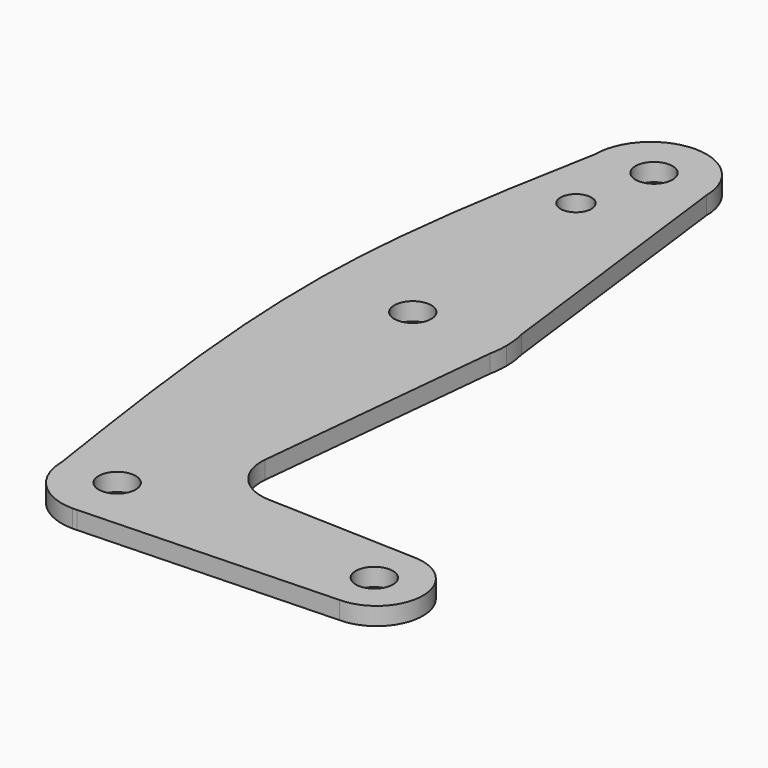
from build123d import *

# Parameters (mm, degrees)
F1_DEPTH = 3.048
F2_R     = 3.175
F2_R_2   = 2.6475985541
F3_DEPTH = 25.4


with BuildPart() as f1:
    # F0 (on Top) → F1 (new body)
    with BuildSketch(Plane.XY):
        with BuildLine():
            Line((36.5125, 0), (9.525, 0))
            ThreePointArc((9.525, 0), (6.9712901065, -6.4905114784), (0.6794904459, -9.5007324841))
            add(Edge.make_bspline(
                [(0.6794904459, -9.5007324841), (15.2696602972, -8.9796549894), (29.8598301486, -8.4585774947), (44.45, -7.9375)],
                knots=[0.6799236563, 0.6799236563, 0.6799236563, 0.6799236563, 44.4783391804, 44.4783391804, 44.4783391804, 44.4783391804], degree=3))
            ThreePointArc((44.45, -7.9375), (38.8373399243, -5.6126600757), (36.5125, 0))
        make_face()
        with BuildLine():
            ThreePointArc((0.6794904459, -9.5007324841), (6.9712901065, -6.4905114784), (9.525, 0))
            Line((9.525, 0), (7.9502, 0))
            Line((7.9502, 0), (0, 0))
            Line((0, 0), (0, 7.9502))
            Line((0, 7.9502), (0, 9.525))
            ThreePointArc((0, 9.525), (-6.7351920908, 6.7351920908), (-9.525, 0))
            ThreePointArc((-9.525, 0), (-6.7351920908, -6.7351920908), (0, -9.525))
            add(Edge.make_bspline(
                [(0, -9.525), (0.2264968153, -9.516910828), (0.4529936306, -9.5088216561), (0.6794904459, -9.5007324841)],
                knots=[0, 0, 0, 0, 0.6799236563, 0.6799236563, 0.6799236563, 0.6799236563], degree=3))
        make_face()
        with BuildLine():
            ThreePointArc((0, 9.525), (6.7351920908, 6.7351920908), (9.525, 0))
            Line((9.525, 0), (36.5125, 0))
            ThreePointArc((36.5125, 0), (38.9380895153, 5.7116327839), (44.7324052746, 7.9324746146))
            Line((44.7324052746, 7.9324746146), (18.911683868, 8.8517221725))
            ThreePointArc((18.911683868, 8.8517221725), (13.2058638027, 11.5679858429), (11.2837963213, 17.5879632134))
            Line((11.2837963213, 17.5879632134), (15.5606435644, 60.3564356436))
            ThreePointArc((15.5606435644, 60.3564356436), (10.0526499203, 51.2134278751), (0, 47.625))
            Line((0, 47.625), (0, 9.525))
        make_face()
        with BuildLine():
            ThreePointArc((-9.525, 0), (-6.7351920908, 6.7351920908), (0, 9.525))
            Line((0, 9.525), (0, 47.625))
            ThreePointArc((0, 47.625), (-11.2253201513, 52.2746798487), (-15.875, 63.5))
            add(Edge.make_bspline(
                [(-15.875, 63.5), (-16.1215550824, 43.5259949008), (-12.8232775412, 21.7629974504), (-9.525, 0)],
                knots=[0.4724820063, 0.4724820063, 0.4724820063, 0.4724820063, 1, 1, 1, 1], degree=3))
        make_face()
        with BuildLine():
            ThreePointArc((0, -9.525), (0.3399618281, -9.5189311877), (0.6794904459, -9.5007324841))
            add(Edge.make_bspline(
                [(0, -9.525), (0.2264968153, -9.516910828), (0.4529936306, -9.5088216561), (0.6794904459, -9.5007324841)],
                knots=[0, 0, 0, 0, 0.6799236563, 0.6799236563, 0.6799236563, 0.6799236563], degree=3))
        make_face()
        with BuildLine():
            ThreePointArc((44.7324052746, 7.9324746146), (38.9380895153, 5.7116327839), (36.5125, 0))
            ThreePointArc((36.5125, 0), (38.8373399243, -5.6126600757), (44.45, -7.9375))
            ThreePointArc((44.45, -7.9375), (50.0626600757, -5.6126600757), (52.3875, 0))
            ThreePointArc((52.3875, 0), (50.1616327839, 5.5119104847), (44.7324052746, 7.9324746146))
        make_face()
        with BuildLine():
            ThreePointArc((-15.875, 63.5), (-11.2253201513, 52.2746798487), (0, 47.625))
            Line((0, 47.625), (0, 63.5))
            Line((0, 63.5), (0, 79.375))
            ThreePointArc((0, 79.375), (-11.0712727385, 74.8772819667), (-15.8691013135, 63.9327221983))
            add(Edge.make_bspline(
                [(-15.8691013135, 63.9327221983), (-15.871251645, 63.7885743777), (-15.8732183716, 63.6443338962), (-15.875, 63.5)],
                knots=[0.4686701154, 0.4686701154, 0.4686701154, 0.4686701154, 0.4724820063, 0.4724820063, 0.4724820063, 0.4724820063], degree=3))
        make_face()
        with BuildLine():
            Line((0, 63.5), (0, 47.625))
            ThreePointArc((0, 47.625), (10.0526499203, 51.2134278751), (15.5606435644, 60.3564356436))
            Line((15.5606435644, 60.3564356436), (15.875, 63.5))
            Line((15.875, 63.5), (15.3865384615, 67.4076923077))
            ThreePointArc((15.3865384615, 67.4076923077), (9.7463072395, 76.0309664508), (0, 79.375))
            Line((0, 79.375), (0, 63.5))
        make_face()
        with BuildLine():
            ThreePointArc((-15.8691013135, 63.9327221983), (-15.8735252599, 63.7163812003), (-15.875, 63.5))
            add(Edge.make_bspline(
                [(-15.8691013135, 63.9327221983), (-15.871251645, 63.7885743777), (-15.8732183716, 63.6443338962), (-15.875, 63.5)],
                knots=[0.4686701154, 0.4686701154, 0.4686701154, 0.4686701154, 0.4724820063, 0.4724820063, 0.4724820063, 0.4724820063], degree=3))
        make_face()
        with BuildLine():
            Line((15.875, 63.5), (15.5606435644, 60.3564356436))
            ThreePointArc((15.5606435644, 60.3564356436), (15.7962153946, 61.9203784605), (15.875, 63.5))
        make_face()
        with BuildLine():
            add(Edge.make_bspline(
                [(-9.525, 114.3), (-12.5648595586, 97.9778131088), (-15.6047191172, 81.6556262176), (-15.8691013135, 63.9327221983)],
                knots=[0, 0, 0, 0, 0.4686701154, 0.4686701154, 0.4686701154, 0.4686701154], degree=3))
            ThreePointArc((-15.8691013135, 63.9327221983), (-11.0712727385, 74.8772819667), (0, 79.375))
            Line((0, 79.375), (0, 104.775))
            ThreePointArc((0, 104.775), (-6.7351920908, 107.5648079092), (-9.525, 114.3))
        make_face()
        with BuildLine():
            Line((0, 104.775), (0, 79.375))
            ThreePointArc((0, 79.375), (9.7463072395, 76.0309664508), (15.3865384615, 67.4076923077))
            Line((15.3865384615, 67.4076923077), (9.525, 114.3))
            ThreePointArc((9.525, 114.3), (6.7351920908, 107.5648079092), (0, 104.775))
        make_face()
        with BuildLine():
            Line((15.3865384615, 67.4076923077), (15.875, 63.5))
            ThreePointArc((15.875, 63.5), (15.7524112928, 65.4690514116), (15.3865384615, 67.4076923077))
        make_face()
        with BuildLine():
            ThreePointArc((9.525, 114.3), (0, 123.825), (-9.525, 114.3))
            ThreePointArc((-9.525, 114.3), (-6.7351920908, 107.5648079092), (0, 104.775))
            ThreePointArc((0, 104.775), (6.7351920908, 107.5648079092), (9.525, 114.3))
        make_face()
        with BuildLine():
            Line((7.9502, 0), (9.525, 0))
            ThreePointArc((9.525, 0), (6.7351920908, 6.7351920908), (0, 9.525))
            Line((0, 9.525), (0, 7.9502))
            Line((0, 7.9502), (0, 0))
            Line((0, 0), (7.9502, 0))
        make_face()
    extrude(amount=F1_DEPTH)

    # F2 (on Top) → F3 (cut)
    with BuildSketch(Plane.XY):
        Circle(F2_R)
        with Locations((44.0649949014, 0)):
            Circle(F2_R)
        with Locations((0, 63.319042325)):
            Circle(F2_R)
        with Locations((0, 114.9814501405)):
            Circle(F2_R)
        with Locations((-2.662157407, 101.5982031822)):
            Circle(F2_R_2)
    extrude(amount=F3_DEPTH, mode=Mode.SUBTRACT)


solid = f1.part
